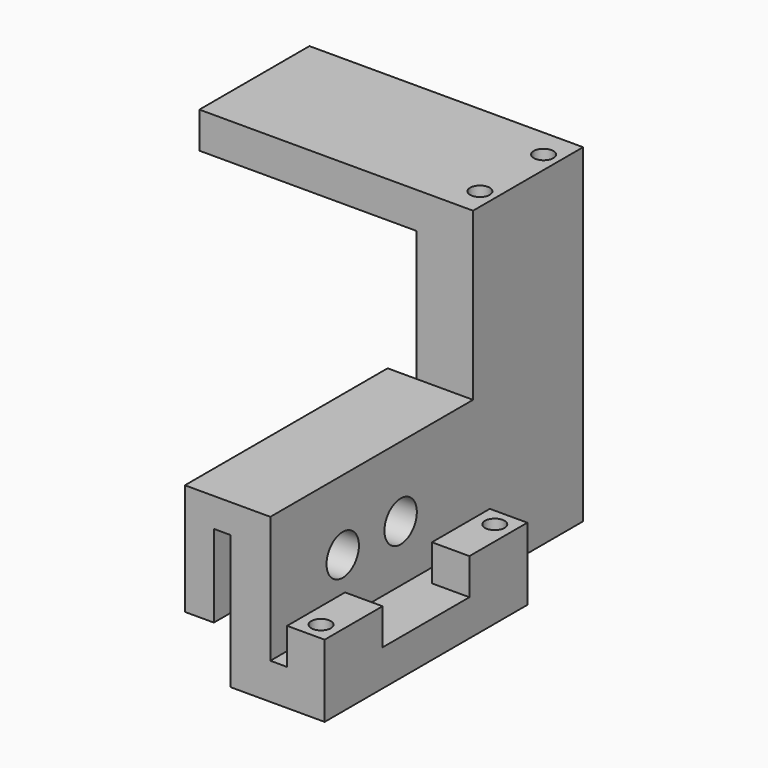
from build123d import *

# Parameters (mm, degrees)
F1_DEPTH  = 35
F2_W      = 5.184
F2_H      = 10
F2_R      = 1.35
F3_DEPTH  = 5
F4_R      = 2.795
F5_DEPTH  = 5.5
F7_DEPTH  = 19
F8_R      = 1.35
F9_DEPTH  = 41.5
F10_DEPTH = 3.5


with BuildPart() as f1:
    # F0 (on Front) → F1 (new body)
    with BuildSketch(Plane.XZ):
        Polygon((-36.4558147092, 34.5085331884), (-36.4558147092, 19.1085331884), (-32.4558147092, 19.1085331884), (-32.4558147092, 30.5085331884), (-30.1558147092, 30.5085331884), (-30.1558147092, 12.0085331884), (-17.1558147092, 12.0085331884), (-17.1558147092, 17.0085331884), (-24.6558147092, 17.0085331884), (-24.6558147092, 34.5085331884), align=None)
    extrude(amount=F1_DEPTH)

    # F2 (on face) → F3 (join)
    with BuildSketch(Plane.XY.offset(17.0085331884)):
        with Locations((-19.7478147092, -5)):
            Rectangle(F2_W, F2_H)
        with Locations((-19.6558147092, -2.5)):
            Circle(F2_R, mode=Mode.SUBTRACT)
        with Locations((-19.7478147092, -30)):
            Rectangle(F2_W, F2_H)
        with Locations((-19.6558147092, -32.5)):
            Circle(F2_R, mode=Mode.SUBTRACT)
    extrude(amount=F3_DEPTH)

    # F4 (on face) → F5 (cut, through all)
    with BuildSketch(Plane.YZ.offset(-24.6558147092)):
        with Locations((-22.5, 24.8085331884)):
            Circle(F4_R)
        with Locations((-12.5, 24.8085331884)):
            Circle(F4_R)
    extrude(amount=-F5_DEPTH, mode=Mode.SUBTRACT)

    # F6 (on face) → F7 (join)
    with BuildSketch(Plane(origin=(0, 0, 0), x_dir=(-1, 0, 0), z_dir=(0, 1, 0))):
        Polygon((24.6558147092, 12.0085331884), (30.1558147092, 12.0085331884), (30.1558147092, 30.5085331884), (32.4558147092, 30.5085331884), (32.4558147092, 34.5085331884), (32.4558147092, 52.5085331884), (62.4558147092, 52.5085331884), (62.4558147092, 57.5085331884), (24.6558147092, 57.5085331884), align=None)
    extrude(amount=F7_DEPTH)

    # F8 (on face) → F9 (cut)
    with BuildSketch(Plane.XY.offset(57.5085331884)):
        with Locations((-26.9058147092, 4)):
            Circle(F8_R)
        with Locations((-26.9058147092, 15)):
            Circle(F8_R)
    extrude(amount=-F9_DEPTH, mode=Mode.SUBTRACT)

    # F10 (cut): faces of the model
    f10_faces = [f1.faces().sort_by_distance(p)[0] for p in [
        (-19.6558147092, -32.5, 17.0085331884),
        (-19.6558147092, -2.5, 17.0085331884),
    ]]
    extrude(f10_faces, amount=-F10_DEPTH, mode=Mode.SUBTRACT)


solid = f1.part
